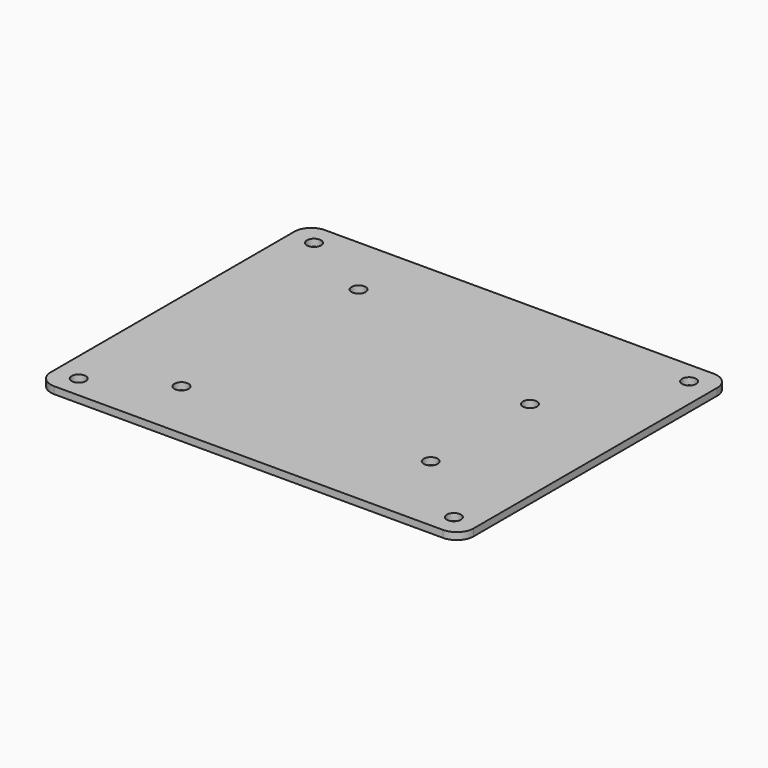
from build123d import *

# Parameters (mm, degrees)
F1_DEPTH = 1.5875
F2_D     = 3.175


with BuildPart() as f1:
    # F0 (on Top) → F1 (new body)
    with BuildSketch(Plane.XY):
        with BuildLine():
            ThreePointArc((0, 3.81), (1.115923, 1.115923), (3.81, 0))
            Line((3.81, 0), (91.44, 0))
            ThreePointArc((91.44, 0), (94.134077, 1.115923), (95.25, 3.81))
            Line((95.25, 3.81), (95.25, 72.39))
            ThreePointArc((95.25, 72.39), (94.134077, 75.084077), (91.44, 76.2))
            Line((91.44, 76.2), (3.81, 76.2))
            ThreePointArc((3.81, 76.2), (1.115923, 75.084077), (0, 72.39))
            Line((0, 72.39), (0, 3.81))
        make_face()
    extrude(amount=-F1_DEPTH)

    # F2 (through all)
    with Locations(Plane.XY):
        with Locations((5.3594, 71.2216), (22.589594, 62.23), (73.389594, 46.99), (89.8652, 71.2216), (89.8652, 4.9784), (73.389594, 19.05), (21.319594, 13.97), (5.3594, 4.9784)):
            Hole(F2_D / 2)


solid = f1.part
